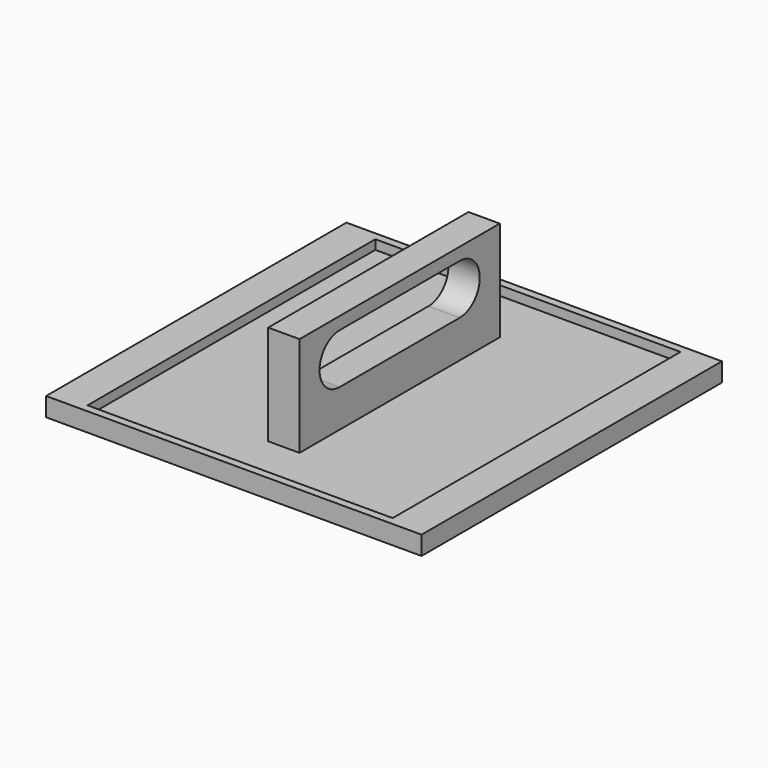
from build123d import *

# Parameters (mm, degrees)
F0_W     = 76.2
F0_H     = 76.2
F1_DEPTH = 3.81
F2_W     = 61.9252
F2_H     = 73.025
F3_DEPTH = 1.905
F4_W     = 6.35
F4_H     = 50.8
F5_DEPTH = 25.4
F7_DEPTH = 25.4
F8_W     = 50.8
F8_H     = 5.08
F9_DEPTH = 25.4


with BuildPart() as f1:
    # F0 (on Top) → F1 (new body)
    with BuildSketch(Plane.XY):
        Rectangle(F0_W, F0_H)
    extrude(amount=F1_DEPTH)

    # F2 (on face) → F3 (cut)
    with BuildSketch(Plane.XY.offset(3.81)):
        Rectangle(F2_W, F2_H)
    extrude(amount=-F3_DEPTH, mode=Mode.SUBTRACT)

    # F4 (on face) → F5 (join)
    with BuildSketch(Plane.XY.offset(1.905)):
        Rectangle(F4_W, F4_H)
    extrude(amount=F5_DEPTH)

    # F6 (on face) → F7 (cut)
    with BuildSketch(Plane.YZ.offset(3.175)):
        with BuildLine():
            ThreePointArc((15.24, 9.525), (20.32, 14.605), (15.24, 19.685))
            Line((15.24, 19.685), (-15.24, 19.685))
            ThreePointArc((-15.24, 19.685), (-20.32, 14.605), (-15.24, 9.525))
            Line((-15.24, 9.525), (15.24, 9.525))
        make_face()
    extrude(amount=-F7_DEPTH, mode=Mode.SUBTRACT)

    # F8 (on face) → F9 (cut)
    with BuildSketch(Plane.YZ.offset(3.175)):
        with Locations((0, 24.765)):
            Rectangle(F8_W, F8_H)
    extrude(amount=-F9_DEPTH, mode=Mode.SUBTRACT)


solid = f1.part
